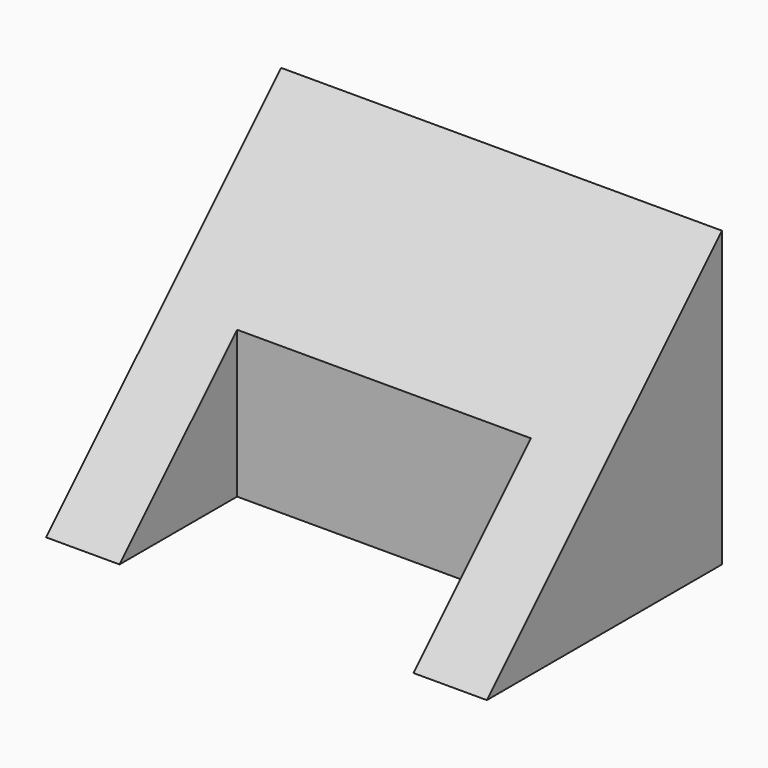
from build123d import *

# Parameters (mm, degrees)
F0_W     = 38.1
F0_H     = 25.4
F1_DEPTH = 25.4
F2_W     = 25.4
F2_H     = 12.7
F3_DEPTH = 25.4
F5_DEPTH = 38.1


with BuildPart() as f1:
    # F0 (on Top) → F1 (new body)
    with BuildSketch(Plane.XY):
        with Locations((19.05, 12.7)):
            Rectangle(F0_W, F0_H)
    extrude(amount=F1_DEPTH)

    # F2 (on face) → F3 (cut)
    with BuildSketch(Plane.XY.offset(25.4)):
        with Locations((19.05, 6.35)):
            Rectangle(F2_W, F2_H)
    extrude(amount=-F3_DEPTH, mode=Mode.SUBTRACT)

    # F4 (on face) → F5 (cut)
    with BuildSketch(Plane.YZ.offset(38.1)):
        Polygon((0, 25.4), (0, 0), (25.4, 25.4), align=None)
    extrude(amount=-F5_DEPTH, mode=Mode.SUBTRACT)


solid = f1.part
